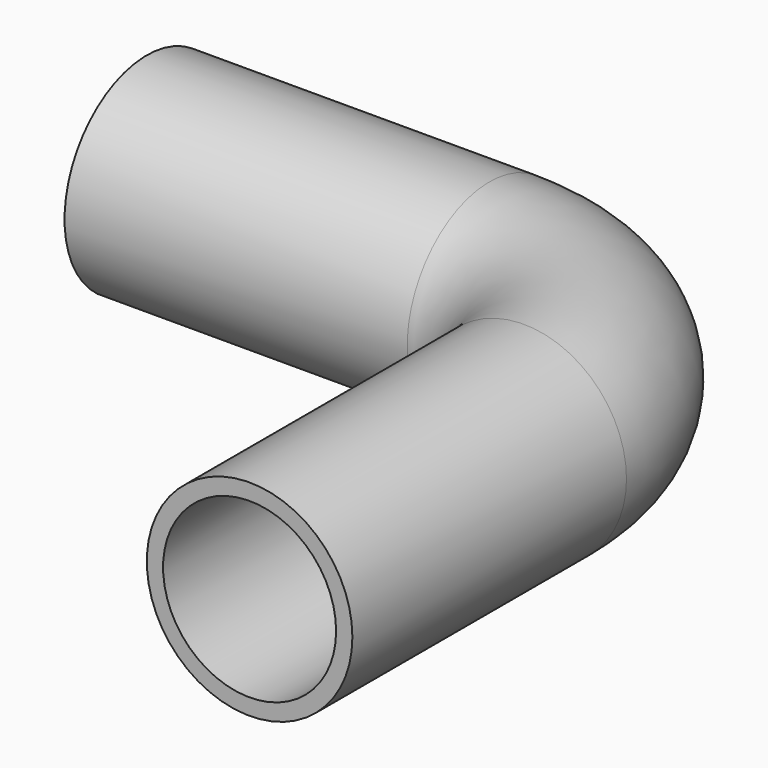
from build123d import *

# Parameters (mm, degrees)
F1_R     = 6
F4_R     = 5.05
F5_DEPTH = 20
F6_R     = 5.05
F7_DEPTH = 20


with BuildPart() as f3:
    # F3: sweep along a path in F0
    with BuildLine(Plane.XY) as f3_path:
        Line((-8.6471897678, 0), (-8.6471897678, 20))
        ThreePointArc((-8.6471897678, 20), (-11.5761219559, 27.0710678119), (-18.6471897678, 30))
        Line((-18.6471897678, 30), (-38.6471897678, 30))
    # F1 (on Front) → F3 (sweep)
    with BuildSketch(Plane.XZ):
        with Locations((-8.6471897678, 0)):
            Circle(F1_R)
    sweep(path=f3_path.line)

    # F4 (on face) → F5 (cut)
    with BuildSketch(Plane.XZ):
        with Locations((-8.6471897678, 0)):
            Circle(F4_R)
    extrude(amount=-F5_DEPTH, mode=Mode.SUBTRACT)

    # F6 (on face) → F7 (cut)
    with BuildSketch(Plane(origin=(-38.6471897678, 0, 0), x_dir=(0, -1, 0), z_dir=(-1, 0, 0))):
        with Locations((-30, 0)):
            Circle(F6_R)
    extrude(amount=-F7_DEPTH, mode=Mode.SUBTRACT)


solid = f3.part
